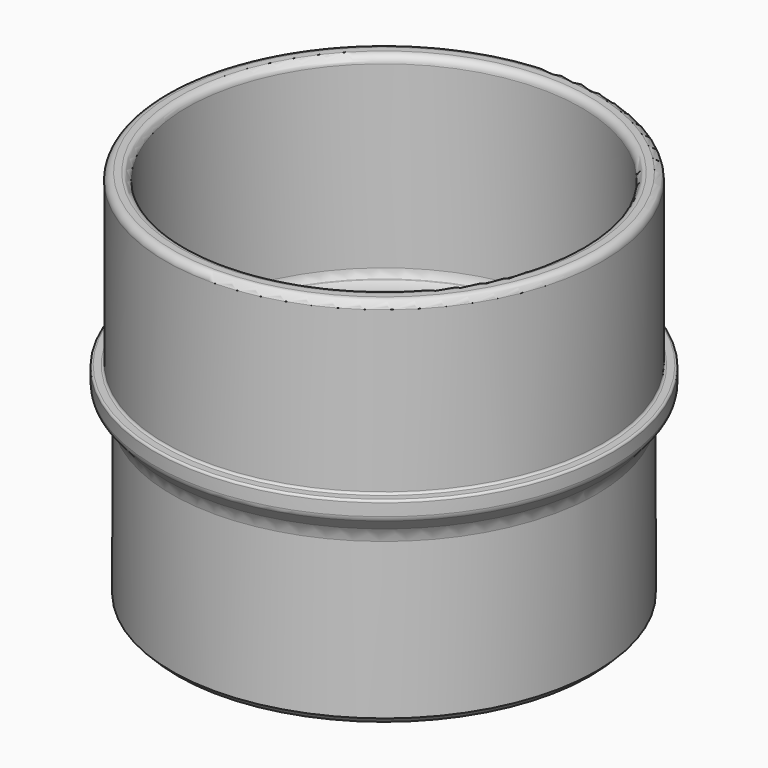
from build123d import *

# Parameters (mm, degrees)
F2_R    = 1.75
F3_R    = 0.5
F4_R    = 5
F5_SIZE = 1.5
F6_R    = 3


with BuildPart() as f1:
    # F0 (on Front) → F1 (revolve)
    with BuildSketch(Plane.XZ):
        Polygon((45, 0), (50, 0), (50, 40), (54, 44.767014), (54, 48.767014), (51.5, 48.767014), (51.5, 88.767014), (46.5, 88.767014), (46.5, 43.607482), (45, 41.819851), align=None)
    revolve(axis=Axis((0, 0, 46.684548), (0, 0, 1)))

    # F2
    f2_edges = [f1.edges().sort_by_distance(p)[0] for p in [
        (-51.5, 0, 88.767014),
        (-46.5, 0, 88.767014),
        (-54, 0, 44.767014),
    ]]
    fillet(f2_edges, radius=F2_R)

    # F3
    f3_edges = [f1.edges().sort_by_distance(p)[0] for p in [
        (-54, 0, 48.767014),
        (-51.5, 0, 48.767014),
    ]]
    fillet(f3_edges, radius=F3_R)

    # F4
    f4_edges = [f1.edges().sort_by_distance(p)[0] for p in [
        (-50, 0, 40),
    ]]
    fillet(f4_edges, radius=F4_R)

    # F5
    f5_edges = [f1.edges().sort_by_distance(p)[0] for p in [
        (-50, 0, 0),
    ]]
    chamfer(f5_edges, length=F5_SIZE)

    # F6
    f6_edges = [f1.edges().sort_by_distance(p)[0] for p in [
        (-46.5, 0, 43.607482),
        (-45, 0, 41.819851),
    ]]
    fillet(f6_edges, radius=F6_R)


solid = f1.part
